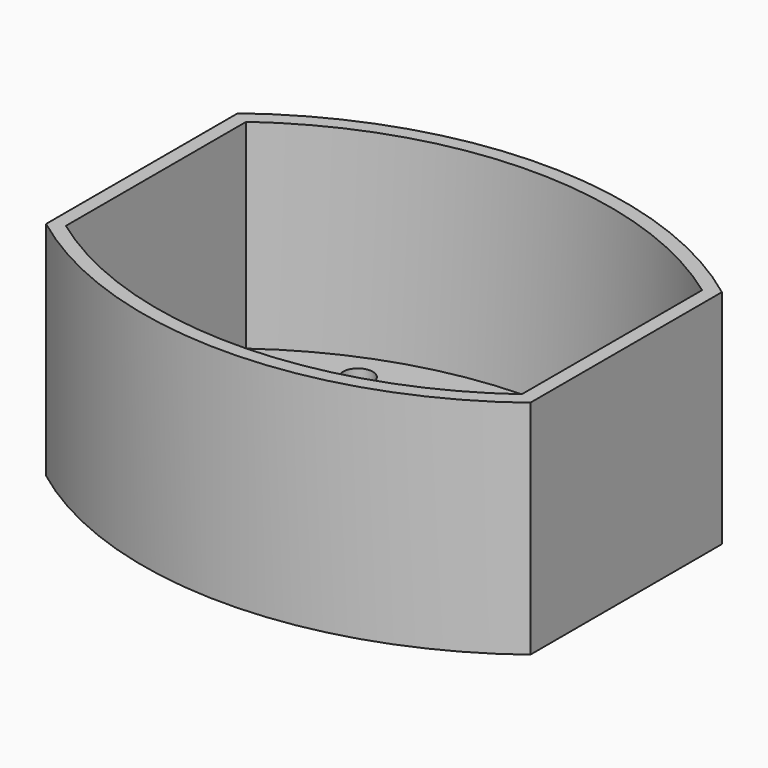
from build123d import *

# Parameters (mm, degrees)
F1_DEPTH = 15
F0_R     = 1
F2_DEPTH = 1.5


with BuildPart() as f1:
    # F0 (on Top) → F1 (new body)
    with BuildSketch(Plane.XY):
        with BuildLine():
            Line((-13.388073, -19.039594), (-13.388073, -2.839899))
            ThreePointArc((-13.388073, -2.839899), (-29.757069, 2.654483), (-46.126065, -2.839899))
            Line((-46.126065, -2.839899), (-46.126065, -19.039594))
            ThreePointArc((-46.126065, -19.039594), (-29.757069, -24.533976), (-13.388073, -19.039594))
        make_face()
        with BuildLine():
            ThreePointArc((-45.16989, -3.320836), (-29.757069, 1.698308), (-14.344248, -3.320836))
            Line((-14.344248, -3.320836), (-14.344248, -18.558657))
            ThreePointArc((-14.344248, -18.558657), (-29.757069, -23.577801), (-45.16989, -18.558657))
            Line((-45.16989, -18.558657), (-45.16989, -3.320836))
        make_face(mode=Mode.SUBTRACT)
    extrude(amount=F1_DEPTH)

    # F0 (on Top) → F2 (join)
    with BuildSketch(Plane.XY):
        with BuildLine():
            Line((-14.344248, -18.558657), (-14.344248, -3.320836))
            ThreePointArc((-14.344248, -3.320836), (-29.757069, 1.698308), (-45.16989, -3.320836))
            Line((-45.16989, -3.320836), (-45.16989, -18.558657))
            ThreePointArc((-45.16989, -18.558657), (-29.757069, -23.577801), (-14.344248, -18.558657))
        make_face()
        with Locations((-38.523632, -19.683723)):
            Circle(F0_R, mode=Mode.SUBTRACT)
        with Locations((-35.023632, -19.683723)):
            Circle(F0_R, mode=Mode.SUBTRACT)
        with Locations((-31.523632, -19.683723)):
            Circle(F0_R, mode=Mode.SUBTRACT)
        with Locations((-42.023632, -16.183723)):
            Circle(F0_R, mode=Mode.SUBTRACT)
        with Locations((-38.523632, -16.183723)):
            Circle(F0_R, mode=Mode.SUBTRACT)
        with Locations((-42.023632, -12.683723)):
            Circle(F0_R, mode=Mode.SUBTRACT)
        with Locations((-38.523632, -12.683723)):
            Circle(F0_R, mode=Mode.SUBTRACT)
        with Locations((-35.023632, -16.183723)):
            Circle(F0_R, mode=Mode.SUBTRACT)
        with Locations((-31.523632, -16.183723)):
            Circle(F0_R, mode=Mode.SUBTRACT)
        with Locations((-35.023632, -12.683723)):
            Circle(F0_R, mode=Mode.SUBTRACT)
        with Locations((-31.523632, -12.683723)):
            Circle(F0_R, mode=Mode.SUBTRACT)
        with Locations((-28.023632, -19.683723)):
            Circle(F0_R, mode=Mode.SUBTRACT)
        with Locations((-24.523632, -19.683723)):
            Circle(F0_R, mode=Mode.SUBTRACT)
        with Locations((-21.023632, -19.683723)):
            Circle(F0_R, mode=Mode.SUBTRACT)
        with Locations((-28.023632, -16.183723)):
            Circle(F0_R, mode=Mode.SUBTRACT)
        with Locations((-24.523632, -16.183723)):
            Circle(F0_R, mode=Mode.SUBTRACT)
        with Locations((-28.023632, -12.683723)):
            Circle(F0_R, mode=Mode.SUBTRACT)
        with Locations((-24.523632, -12.683723)):
            Circle(F0_R, mode=Mode.SUBTRACT)
        with Locations((-21.023632, -16.183723)):
            Circle(F0_R, mode=Mode.SUBTRACT)
        with Locations((-17.523632, -16.183723)):
            Circle(F0_R, mode=Mode.SUBTRACT)
        with Locations((-21.023632, -12.683723)):
            Circle(F0_R, mode=Mode.SUBTRACT)
        with Locations((-17.523632, -12.683723)):
            Circle(F0_R, mode=Mode.SUBTRACT)
        with Locations((-42.023632, -9.183723)):
            Circle(F0_R, mode=Mode.SUBTRACT)
        with Locations((-38.523632, -9.183723)):
            Circle(F0_R, mode=Mode.SUBTRACT)
        with Locations((-42.023632, -5.683723)):
            Circle(F0_R, mode=Mode.SUBTRACT)
        with Locations((-38.523632, -5.683723)):
            Circle(F0_R, mode=Mode.SUBTRACT)
        with Locations((-35.023632, -9.183723)):
            Circle(F0_R, mode=Mode.SUBTRACT)
        with Locations((-31.523632, -9.183723)):
            Circle(F0_R, mode=Mode.SUBTRACT)
        with Locations((-35.023632, -5.683723)):
            Circle(F0_R, mode=Mode.SUBTRACT)
        with Locations((-31.523632, -5.683723)):
            Circle(F0_R, mode=Mode.SUBTRACT)
        with Locations((-38.523632, -2.183723)):
            Circle(F0_R, mode=Mode.SUBTRACT)
        with Locations((-35.023632, -2.183723)):
            Circle(F0_R, mode=Mode.SUBTRACT)
        with Locations((-31.523632, -2.183723)):
            Circle(F0_R, mode=Mode.SUBTRACT)
        with Locations((-28.023632, -9.183723)):
            Circle(F0_R, mode=Mode.SUBTRACT)
        with Locations((-24.523632, -9.183723)):
            Circle(F0_R, mode=Mode.SUBTRACT)
        with Locations((-28.023632, -5.683723)):
            Circle(F0_R, mode=Mode.SUBTRACT)
        with Locations((-24.523632, -5.683723)):
            Circle(F0_R, mode=Mode.SUBTRACT)
        with Locations((-21.023632, -9.183723)):
            Circle(F0_R, mode=Mode.SUBTRACT)
        with Locations((-17.523632, -9.183723)):
            Circle(F0_R, mode=Mode.SUBTRACT)
        with Locations((-21.023632, -5.683723)):
            Circle(F0_R, mode=Mode.SUBTRACT)
        with Locations((-17.523632, -5.683723)):
            Circle(F0_R, mode=Mode.SUBTRACT)
        with Locations((-28.023632, -2.183723)):
            Circle(F0_R, mode=Mode.SUBTRACT)
        with Locations((-24.523632, -2.183723)):
            Circle(F0_R, mode=Mode.SUBTRACT)
        with Locations((-21.023632, -2.183723)):
            Circle(F0_R, mode=Mode.SUBTRACT)
    extrude(amount=F2_DEPTH)


solid = f1.part
